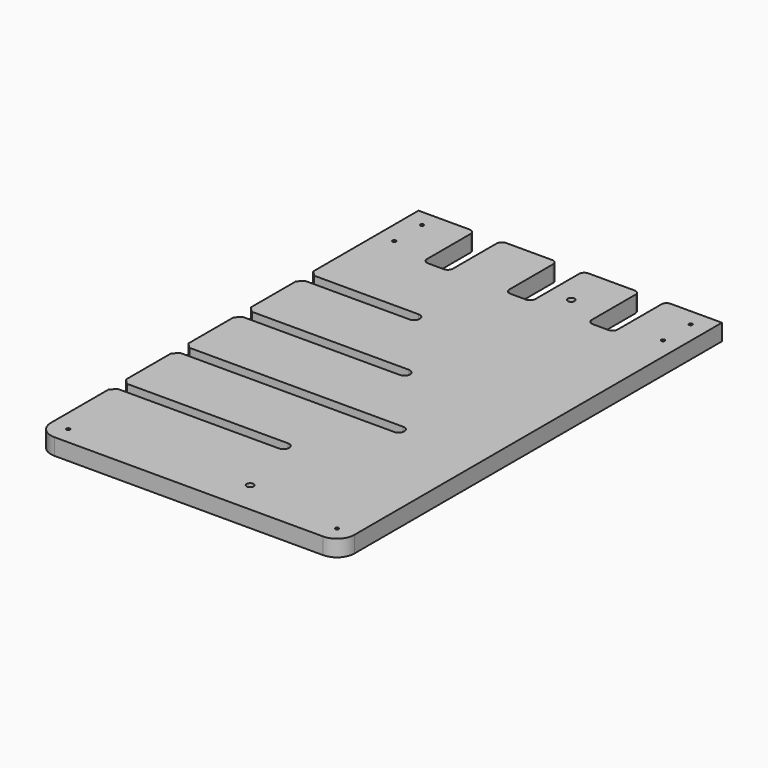
from build123d import *

# Parameters (mm, degrees)
SKETCH011_W              = 550
SKETCH011_H              = 350
PAD012_DEPTH             = 19
SKETCH012_R              = 4
POCKET007_DEPTH          = 11
FILLET_R                 = 20
SKETCH013_R              = 2
POCKET008_DEPTH          = 19.001
SKETCH014_W              = 75
SKETCH014_H              = 30
POCKET009_DEPTH          = 19.001
FILLET004_R              = 6
SKETCH028_R              = 2
POCKET018_DEPTH          = 19.001
CHAMFER008_SIZE          = 6
CLONE001_PLACEMENT_ANGLE = 90


with BuildPart() as part:
    # Sketch011 → Pad012 (new body)
    with BuildSketch(Plane.XY):
        with Locations((0, 41.2)):
            Rectangle(SKETCH011_W, SKETCH011_H)
    extrude(amount=-PAD012_DEPTH)

    # Sketch012 (on Face5 of Pad012) → Pocket007 (cut)
    with BuildSketch(Plane.XY):
        with Locations((-238, 0)):
            Circle(SKETCH012_R)
        with Locations((225, 0)):
            Circle(SKETCH012_R)
        with BuildLine():
            ThreePointArc((-165.823184, 24.404903), (-159.323184, 17.904903), (-152.823184, 24.404903))
            Line((-152.823184, 24.404903), (-152.823184, 216.2))
            ThreePointArc((-152.823184, 216.2), (-159.323184, 222.7), (-165.823184, 216.2))
            Line((-165.823184, 24.404903), (-165.823184, 216.2))
        make_face()
        with BuildLine():
            ThreePointArc((-75.823184, -36.417713), (-69.323184, -42.917713), (-62.823184, -36.417713))
            Line((-62.823184, -36.417713), (-62.823184, 216.2))
            ThreePointArc((-62.823184, 216.2), (-69.323184, 222.7), (-75.823184, 216.2))
            Line((-75.823184, -36.417713), (-75.823184, 216.2))
        make_face()
        with BuildLine():
            ThreePointArc((14.176816, 28.977719), (20.676816, 22.477719), (27.176816, 28.977719))
            Line((27.176816, 28.977719), (27.176816, 216.2))
            ThreePointArc((27.176816, 216.2), (20.676816, 222.7), (14.176816, 216.2))
            Line((14.176816, 28.977719), (14.176816, 216.2))
        make_face()
        with BuildLine():
            ThreePointArc((104.176816, 89.800335), (110.676816, 83.300335), (117.176816, 89.800335))
            Line((117.176816, 89.800335), (117.176816, 216.2))
            ThreePointArc((117.176816, 216.2), (110.676816, 222.7), (104.176816, 216.2))
            Line((104.176816, 89.800335), (104.176816, 216.2))
        make_face()
    extrude(amount=-POCKET007_DEPTH, mode=Mode.SUBTRACT)

    # Fillet
    fillet_edges = [part.edges().sort_by_distance(p)[0] for p in [
        (-275, -133.8, -9.5),
        (-275, 216.2, -9.5),
    ]]
    fillet(fillet_edges, radius=FILLET_R)

    # Sketch013 (on Face2 of Fillet) → Pocket008 (cut, through all)
    with BuildSketch(Plane.XY):
        with Locations((-255, 196.2)):
            Circle(SKETCH013_R)
        with Locations((-255, -113.8)):
            Circle(SKETCH013_R)
        with Locations((215, -113.8)):
            Circle(SKETCH013_R)
        with Locations((215, 196.2)):
            Circle(SKETCH013_R)
    extrude(amount=-POCKET008_DEPTH, mode=Mode.SUBTRACT)

    # Sketch014 (on Face2 of Pocket008) → Pocket009 (cut, through all)
    with BuildSketch(Plane.XY):
        with Locations((237.5, 136.2)):
            Rectangle(SKETCH014_W, SKETCH014_H)
        with Locations((237.5, -53.8)):
            Rectangle(SKETCH014_W, SKETCH014_H)
        with Locations((237.5, 41.2)):
            Rectangle(SKETCH014_W, SKETCH014_H)
    extrude(amount=-POCKET009_DEPTH, mode=Mode.SUBTRACT)

    # Fillet004
    fillet004_edges = [part.edges().sort_by_distance(p)[0] for p in [
        (275, 151.2, -9.5),
        (200, 151.2, -9.5),
        (275, 121.2, -9.5),
        (275, 56.2, -9.5),
        (200, 56.2, -9.5),
        (275, 26.2, -9.5),
        (200, -38.8, -9.5),
        (275, -38.8, -9.5),
        (275, -68.8, -9.5),
        (200, -68.8, -9.5),
        (200, 26.2, -9.5),
        (200, 121.2, -9.5),
    ]]
    fillet(fillet004_edges, radius=FILLET004_R)

    # Sketch028 (on Face50 of Fillet004) → Pocket018 (cut, through all)
    with BuildSketch(Plane(origin=(0, 0, -19), x_dir=(1, 0, 0), z_dir=(0, 0, -1))):
        with Locations((255, -196.2)):
            Circle(SKETCH028_R)
        with Locations((255, 113.8)):
            Circle(SKETCH028_R)
    extrude(amount=-POCKET018_DEPTH, mode=Mode.SUBTRACT)

    # Chamfer008
    chamfer008_edges = [part.edges().sort_by_distance(p)[0] for p in [
        (-165.823184, 216.2, -5.5),
        (-152.823184, 216.2, -5.5),
        (-75.823184, 216.2, -5.5),
        (-62.823184, 216.2, -5.5),
        (14.176816, 216.2, -5.5),
        (27.176816, 216.2, -5.5),
        (104.176816, 216.2, -5.5),
        (117.176816, 216.2, -5.5),
    ]]
    chamfer(chamfer008_edges, length=CHAMFER008_SIZE)


with BuildPart() as part_1:
    # Body008 placement: moved
    add(part.part.moved(Location((0, 0, -9))))


with BuildPart() as part_2:
    # Clone001 placement: moved
    add(part_1.part.moved(Location((217.2, 276, 9))).rotate(Axis((217.2, 276, 9), (0, 0, 1)), CLONE001_PLACEMENT_ANGLE))


solid = part_2.part
